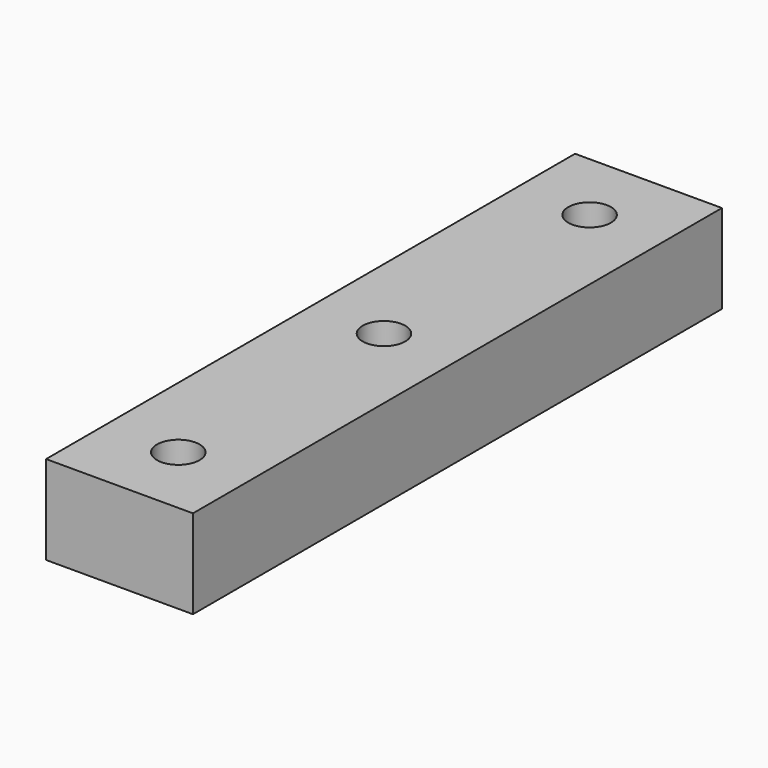
from build123d import *

# Parameters (mm, degrees)
SKETCH010_R      = 2.9
EXTRUDE010_DEPTH = 20
SKETCH009_W      = 19.993101
SKETCH009_H      = 12.095101
EXTRUDE009_DEPTH = 90


with BuildPart() as tornillos003:
    # Sketch010 (on Face4 of Extrude009) → Extrude010 (new body)
    with BuildSketch(Plane.XY.offset(20.871752)):
        with Locations((10, -80)):
            Circle(SKETCH010_R)
        with Locations((10, -45.010692)):
            Circle(SKETCH010_R)
        with Locations((10, -10.021384)):
            Circle(SKETCH010_R)
    extrude(amount=EXTRUDE010_DEPTH)


with BuildPart() as tornillos003_1:
    # Extrude010 placement: moved
    add(tornillos003.part.moved(Location((0, 0, -15))))


with BuildPart() as obj1:
    # Sketch009 → Extrude009 (new body)
    with BuildSketch(Plane.XZ):
        with Locations((9.99655, 14.824202)):
            Rectangle(SKETCH009_W, SKETCH009_H)
    extrude(amount=EXTRUDE009_DEPTH)

    # Cut003: cut Tornillos003
    add(tornillos003_1.part, mode=Mode.SUBTRACT)


with BuildPart() as obj1_1:
    # Cut003 placement: moved
    add(obj1.part.moved(Location((0, 90, 0))))


solid = obj1_1.part
